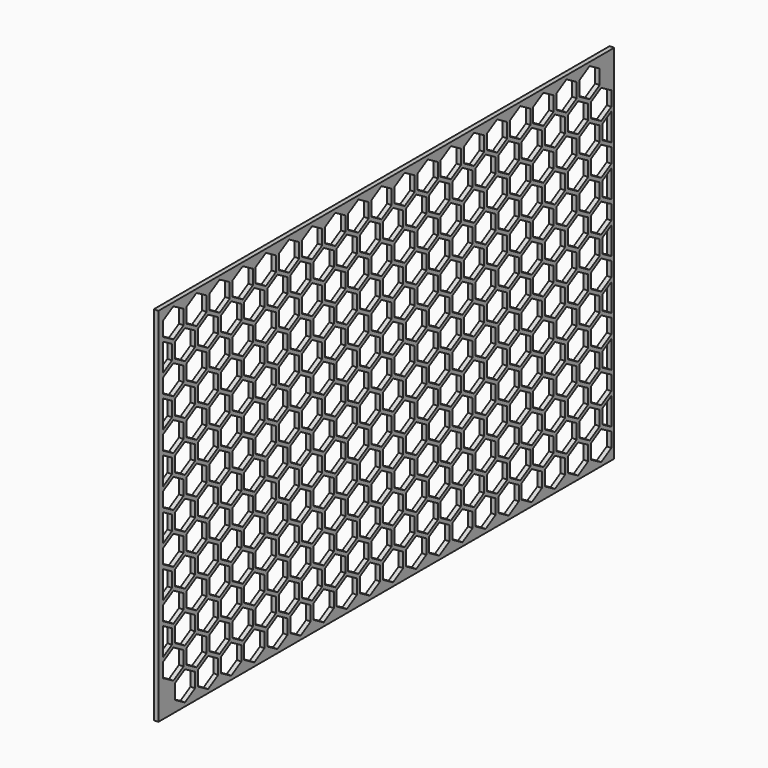
from build123d import *

# Parameters (mm, degrees)
F0_W     = 3154
F0_H     = 2002.990916
F1_DEPTH = 25


with BuildPart() as f1:
    # F0 (on Right) → F1 (new body)
    with BuildSketch(Plane.YZ):
        with Locations((-367, 900.66642)):
            Rectangle(F0_W, F0_H)
        Polygon((-1830, 40.414519), (-1760, 80.829038), (-1690, 40.414519), (-1690, -40.414519), (-1760, -80.829038), (-1830, -40.414519), align=None, mode=Mode.SUBTRACT)
        Polygon((-1600, 80.829038), (-1530, 40.414519), (-1530, -40.414519), (-1600, -80.829038), (-1670, -40.414519), (-1670, 40.414519), align=None, mode=Mode.SUBTRACT)
        Polygon((-1910, 98.149546), (-1910, 178.978583), (-1840, 219.393102), (-1770, 178.978583), (-1770, 98.149546), (-1840, 57.735027), align=None, mode=Mode.SUBTRACT)
        Polygon((-1680, 219.393102), (-1610, 178.978583), (-1610, 98.149546), (-1680, 57.735027), (-1750, 98.149546), (-1750, 178.978583), align=None, mode=Mode.SUBTRACT)
        Polygon((-1370, 40.414519), (-1370, -40.414519), (-1440, -80.829038), (-1510, -40.414519), (-1510, 40.414519), (-1440, 80.829038), align=None, mode=Mode.SUBTRACT)
        Polygon((-1210, -40.414519), (-1280, -80.829038), (-1350, -40.414519), (-1350, 40.414519), (-1280, 80.829038), (-1210, 40.414519), align=None, mode=Mode.SUBTRACT)
        Polygon((-1450, 98.149546), (-1520, 57.735027), (-1590, 98.149546), (-1590, 178.978583), (-1520, 219.393102), (-1450, 178.978583), align=None, mode=Mode.SUBTRACT)
        Polygon((-1430, 178.978583), (-1360, 219.393102), (-1290, 178.978583), (-1290, 98.149546), (-1360, 57.735027), (-1430, 98.149546), align=None, mode=Mode.SUBTRACT)
        Polygon((-1270, 178.978583), (-1200, 219.393102), (-1130, 178.978583), (-1130, 98.149546), (-1200, 57.735027), (-1270, 98.149546), align=None, mode=Mode.SUBTRACT)
        Polygon((-1910, 352.183664), (-1850, 317.542648), (-1850, 236.71361), (-1910, 202.072594), align=None, mode=Mode.SUBTRACT)
        Polygon((-1830, 236.71361), (-1830, 317.542648), (-1760, 357.957167), (-1690, 317.542648), (-1690, 236.71361), (-1760, 196.299092), align=None, mode=Mode.SUBTRACT)
        Polygon((-1600, 357.957167), (-1530, 317.542648), (-1530, 236.71361), (-1600, 196.299092), (-1670, 236.71361), (-1670, 317.542648), align=None, mode=Mode.SUBTRACT)
        Polygon((-1510, 236.71361), (-1510, 317.542648), (-1440, 357.957167), (-1370, 317.542648), (-1370, 236.71361), (-1440, 196.299092), align=None, mode=Mode.SUBTRACT)
        Polygon((-1350, 317.542648), (-1280, 357.957167), (-1210, 317.542648), (-1210, 236.71361), (-1280, 196.299092), (-1350, 236.71361), align=None, mode=Mode.SUBTRACT)
        Polygon((-1050, 40.414519), (-1050, -40.414519), (-1120, -80.829038), (-1190, -40.414519), (-1190, 40.414519), (-1120, 80.829038), align=None, mode=Mode.SUBTRACT)
        Polygon((-1030, -40.414519), (-1030, 40.414519), (-960, 80.829038), (-890, 40.414519), (-890, -40.414519), (-960, -80.829038), align=None, mode=Mode.SUBTRACT)
        Polygon((-730, 40.414519), (-730, -40.414519), (-800, -80.829038), (-870, -40.414519), (-870, 40.414519), (-800, 80.829038), align=None, mode=Mode.SUBTRACT)
        Polygon((-1040, 219.393102), (-970, 178.978583), (-970, 98.149546), (-1040, 57.735027), (-1110, 98.149546), (-1110, 178.978583), align=None, mode=Mode.SUBTRACT)
        Polygon((-810, 178.978583), (-810, 98.149546), (-880, 57.735027), (-950, 98.149546), (-950, 178.978583), (-880, 219.393102), align=None, mode=Mode.SUBTRACT)
        Polygon((-570, -40.414519), (-640, -80.829038), (-710, -40.414519), (-710, 40.414519), (-640, 80.829038), (-570, 40.414519), align=None, mode=Mode.SUBTRACT)
        Polygon((-550, 40.414519), (-480, 80.829038), (-410, 40.414519), (-410, -40.414519), (-480, -80.829038), (-550, -40.414519), align=None, mode=Mode.SUBTRACT)
        Polygon((-790, 98.149546), (-790, 178.978583), (-720, 219.393102), (-650, 178.978583), (-650, 98.149546), (-720, 57.735027), align=None, mode=Mode.SUBTRACT)
        Polygon((-560, 219.393102), (-490, 178.978583), (-490, 98.149546), (-560, 57.735027), (-630, 98.149546), (-630, 178.978583), align=None, mode=Mode.SUBTRACT)
        Polygon((-330, 98.149546), (-400, 57.735027), (-470, 98.149546), (-470, 178.978583), (-400, 219.393102), (-330, 178.978583), align=None, mode=Mode.SUBTRACT)
        Polygon((-1190, 236.71361), (-1190, 317.542648), (-1120, 357.957167), (-1050, 317.542648), (-1050, 236.71361), (-1120, 196.299092), align=None, mode=Mode.SUBTRACT)
        Polygon((-1030, 236.71361), (-1030, 317.542648), (-960, 357.957167), (-890, 317.542648), (-890, 236.71361), (-960, 196.299092), align=None, mode=Mode.SUBTRACT)
        Polygon((-800, 357.957167), (-730, 317.542648), (-730, 236.71361), (-800, 196.299092), (-870, 236.71361), (-870, 317.542648), align=None, mode=Mode.SUBTRACT)
        Polygon((-570, 236.71361), (-640, 196.299092), (-710, 236.71361), (-710, 317.542648), (-640, 357.957167), (-570, 317.542648), align=None, mode=Mode.SUBTRACT)
        Polygon((-410, 236.71361), (-480, 196.299092), (-550, 236.71361), (-550, 317.542648), (-480, 357.957167), (-410, 317.542648), align=None, mode=Mode.SUBTRACT)
        Polygon((-1770, 375.277675), (-1840, 334.863156), (-1910, 375.277675), (-1910, 456.106713), (-1840, 496.521232), (-1770, 456.106713), align=None, mode=Mode.SUBTRACT)
        Polygon((-1680, 334.863156), (-1750, 375.277675), (-1750, 456.106713), (-1680, 496.521232), (-1610, 456.106713), (-1610, 375.277675), align=None, mode=Mode.SUBTRACT)
        Polygon((-1850, 594.670777), (-1850, 513.84174), (-1910, 479.200723), (-1910, 629.311793), align=None, mode=Mode.SUBTRACT)
        Polygon((-1760, 635.085296), (-1690, 594.670777), (-1690, 513.84174), (-1760, 473.427221), (-1830, 513.84174), (-1830, 594.670777), align=None, mode=Mode.SUBTRACT)
        Polygon((-1600, 635.085296), (-1530, 594.670777), (-1530, 513.84174), (-1600, 473.427221), (-1670, 513.84174), (-1670, 594.670777), align=None, mode=Mode.SUBTRACT)
        Polygon((-1450, 456.106713), (-1450, 375.277675), (-1520, 334.863156), (-1590, 375.277675), (-1590, 456.106713), (-1520, 496.521232), align=None, mode=Mode.SUBTRACT)
        Polygon((-1290, 375.277675), (-1360, 334.863156), (-1430, 375.277675), (-1430, 456.106713), (-1360, 496.521232), (-1290, 456.106713), align=None, mode=Mode.SUBTRACT)
        Polygon((-1130, 375.277675), (-1200, 334.863156), (-1270, 375.277675), (-1270, 456.106713), (-1200, 496.521232), (-1130, 456.106713), align=None, mode=Mode.SUBTRACT)
        Polygon((-1510, 513.84174), (-1510, 594.670777), (-1440, 635.085296), (-1370, 594.670777), (-1370, 513.84174), (-1440, 473.427221), align=None, mode=Mode.SUBTRACT)
        Polygon((-1280, 635.085296), (-1210, 594.670777), (-1210, 513.84174), (-1280, 473.427221), (-1350, 513.84174), (-1350, 594.670777), align=None, mode=Mode.SUBTRACT)
        Polygon((-1910, 652.405804), (-1910, 733.234842), (-1840, 773.649361), (-1770, 733.234842), (-1770, 652.405804), (-1840, 611.991285), align=None, mode=Mode.SUBTRACT)
        Polygon((-1750, 652.405804), (-1750, 733.234842), (-1680, 773.649361), (-1610, 733.234842), (-1610, 652.405804), (-1680, 611.991285), align=None, mode=Mode.SUBTRACT)
        Polygon((-1850, 871.798906), (-1850, 790.969869), (-1910, 756.328853), (-1910, 906.439923), align=None, mode=Mode.SUBTRACT)
        Polygon((-1690, 790.969869), (-1760, 750.55535), (-1830, 790.969869), (-1830, 871.798906), (-1760, 912.213425), (-1690, 871.798906), align=None, mode=Mode.SUBTRACT)
        Polygon((-1530, 790.969869), (-1600, 750.55535), (-1670, 790.969869), (-1670, 871.798906), (-1600, 912.213425), (-1530, 871.798906), align=None, mode=Mode.SUBTRACT)
        Polygon((-1590, 733.234842), (-1520, 773.649361), (-1450, 733.234842), (-1450, 652.405804), (-1520, 611.991285), (-1590, 652.405804), align=None, mode=Mode.SUBTRACT)
        Polygon((-1430, 652.405804), (-1430, 733.234842), (-1360, 773.649361), (-1290, 733.234842), (-1290, 652.405804), (-1360, 611.991285), align=None, mode=Mode.SUBTRACT)
        Polygon((-1200, 773.649361), (-1130, 733.234842), (-1130, 652.405804), (-1200, 611.991285), (-1270, 652.405804), (-1270, 733.234842), align=None, mode=Mode.SUBTRACT)
        Polygon((-1440, 750.55535), (-1510, 790.969869), (-1510, 871.798906), (-1440, 912.213425), (-1370, 871.798906), (-1370, 790.969869), align=None, mode=Mode.SUBTRACT)
        Polygon((-1210, 790.969869), (-1280, 750.55535), (-1350, 790.969869), (-1350, 871.798906), (-1280, 912.213425), (-1210, 871.798906), align=None, mode=Mode.SUBTRACT)
        Polygon((-970, 375.277675), (-1040, 334.863156), (-1110, 375.277675), (-1110, 456.106713), (-1040, 496.521232), (-970, 456.106713), align=None, mode=Mode.SUBTRACT)
        Polygon((-810, 375.277675), (-880, 334.863156), (-950, 375.277675), (-950, 456.106713), (-880, 496.521232), (-810, 456.106713), align=None, mode=Mode.SUBTRACT)
        Polygon((-1190, 594.670777), (-1120, 635.085296), (-1050, 594.670777), (-1050, 513.84174), (-1120, 473.427221), (-1190, 513.84174), align=None, mode=Mode.SUBTRACT)
        Polygon((-1030, 594.670777), (-960, 635.085296), (-890, 594.670777), (-890, 513.84174), (-960, 473.427221), (-1030, 513.84174), align=None, mode=Mode.SUBTRACT)
        Polygon((-730, 594.670777), (-730, 513.84174), (-800, 473.427221), (-870, 513.84174), (-870, 594.670777), (-800, 635.085296), align=None, mode=Mode.SUBTRACT)
        Polygon((-650, 375.277675), (-720, 334.863156), (-790, 375.277675), (-790, 456.106713), (-720, 496.521232), (-650, 456.106713), align=None, mode=Mode.SUBTRACT)
        Polygon((-560, 334.863156), (-630, 375.277675), (-630, 456.106713), (-560, 496.521232), (-490, 456.106713), (-490, 375.277675), align=None, mode=Mode.SUBTRACT)
        Polygon((-400, 334.863156), (-470, 375.277675), (-470, 456.106713), (-400, 496.521232), (-330, 456.106713), (-330, 375.277675), align=None, mode=Mode.SUBTRACT)
        Polygon((-710, 513.84174), (-710, 594.670777), (-640, 635.085296), (-570, 594.670777), (-570, 513.84174), (-640, 473.427221), align=None, mode=Mode.SUBTRACT)
        Polygon((-410, 513.84174), (-480, 473.427221), (-550, 513.84174), (-550, 594.670777), (-480, 635.085296), (-410, 594.670777), align=None, mode=Mode.SUBTRACT)
        Polygon((-1110, 733.234842), (-1040, 773.649361), (-970, 733.234842), (-970, 652.405804), (-1040, 611.991285), (-1110, 652.405804), align=None, mode=Mode.SUBTRACT)
        Polygon((-950, 733.234842), (-880, 773.649361), (-810, 733.234842), (-810, 652.405804), (-880, 611.991285), (-950, 652.405804), align=None, mode=Mode.SUBTRACT)
        Polygon((-1050, 790.969869), (-1120, 750.55535), (-1190, 790.969869), (-1190, 871.798906), (-1120, 912.213425), (-1050, 871.798906), align=None, mode=Mode.SUBTRACT)
        Polygon((-890, 871.798906), (-890, 790.969869), (-960, 750.55535), (-1030, 790.969869), (-1030, 871.798906), (-960, 912.213425), align=None, mode=Mode.SUBTRACT)
        Polygon((-730, 871.798906), (-730, 790.969869), (-800, 750.55535), (-870, 790.969869), (-870, 871.798906), (-800, 912.213425), align=None, mode=Mode.SUBTRACT)
        Polygon((-720, 773.649361), (-650, 733.234842), (-650, 652.405804), (-720, 611.991285), (-790, 652.405804), (-790, 733.234842), align=None, mode=Mode.SUBTRACT)
        Polygon((-630, 733.234842), (-560, 773.649361), (-490, 733.234842), (-490, 652.405804), (-560, 611.991285), (-630, 652.405804), align=None, mode=Mode.SUBTRACT)
        Polygon((-470, 733.234842), (-400, 773.649361), (-330, 733.234842), (-330, 652.405804), (-400, 611.991285), (-470, 652.405804), align=None, mode=Mode.SUBTRACT)
        Polygon((-570, 790.969869), (-640, 750.55535), (-710, 790.969869), (-710, 871.798906), (-640, 912.213425), (-570, 871.798906), align=None, mode=Mode.SUBTRACT)
        Polygon((-410, 871.798906), (-410, 790.969869), (-480, 750.55535), (-550, 790.969869), (-550, 871.798906), (-480, 912.213425), align=None, mode=Mode.SUBTRACT)
        Polygon((-250, 40.414519), (-250, -40.414519), (-320, -80.829038), (-390, -40.414519), (-390, 40.414519), (-320, 80.829038), align=None, mode=Mode.SUBTRACT)
        Polygon((-230, 40.414519), (-160, 80.829038), (-90, 40.414519), (-90, -40.414519), (-160, -80.829038), (-230, -40.414519), align=None, mode=Mode.SUBTRACT)
        Polygon((70, -40.414519), (0, -80.829038), (-70, -40.414519), (-70, 40.414519), (0, 80.829038), (70, 40.414519), align=None, mode=Mode.SUBTRACT)
        Polygon((-240, 219.393102), (-170, 178.978583), (-170, 98.149546), (-240, 57.735027), (-310, 98.149546), (-310, 178.978583), align=None, mode=Mode.SUBTRACT)
        Polygon((-10, 178.978583), (-10, 98.149546), (-80, 57.735027), (-150, 98.149546), (-150, 178.978583), (-80, 219.393102), align=None, mode=Mode.SUBTRACT)
        Polygon((230, -40.414519), (160, -80.829038), (90, -40.414519), (90, 40.414519), (160, 80.829038), (230, 40.414519), align=None, mode=Mode.SUBTRACT)
        Polygon((250, 40.414519), (320, 80.829038), (390, 40.414519), (390, -40.414519), (320, -80.829038), (250, -40.414519), align=None, mode=Mode.SUBTRACT)
        Polygon((80, 57.735027), (10, 98.149546), (10, 178.978583), (80, 219.393102), (150, 178.978583), (150, 98.149546), align=None, mode=Mode.SUBTRACT)
        Polygon((240, 219.393102), (310, 178.978583), (310, 98.149546), (240, 57.735027), (170, 98.149546), (170, 178.978583), align=None, mode=Mode.SUBTRACT)
        Polygon((470, 98.149546), (400, 57.735027), (330, 98.149546), (330, 178.978583), (400, 219.393102), (470, 178.978583), align=None, mode=Mode.SUBTRACT)
        Polygon((-250, 317.542648), (-250, 236.71361), (-320, 196.299092), (-390, 236.71361), (-390, 317.542648), (-320, 357.957167), align=None, mode=Mode.SUBTRACT)
        Polygon((-230, 236.71361), (-230, 317.542648), (-160, 357.957167), (-90, 317.542648), (-90, 236.71361), (-160, 196.299092), align=None, mode=Mode.SUBTRACT)
        Polygon((-70, 317.542648), (0, 357.957167), (70, 317.542648), (70, 236.71361), (0, 196.299092), (-70, 236.71361), align=None, mode=Mode.SUBTRACT)
        Polygon((160, 196.299092), (90, 236.71361), (90, 317.542648), (160, 357.957167), (230, 317.542648), (230, 236.71361), align=None, mode=Mode.SUBTRACT)
        Polygon((390, 317.542648), (390, 236.71361), (320, 196.299092), (250, 236.71361), (250, 317.542648), (320, 357.957167), align=None, mode=Mode.SUBTRACT)
        Polygon((410, -40.414519), (410, 40.414519), (480, 80.829038), (550, 40.414519), (550, -40.414519), (480, -80.829038), align=None, mode=Mode.SUBTRACT)
        Polygon((570, 40.414519), (640, 80.829038), (710, 40.414519), (710, -40.414519), (640, -80.829038), (570, -40.414519), align=None, mode=Mode.SUBTRACT)
        Polygon((800, 80.829038), (870, 40.414519), (870, -40.414519), (800, -80.829038), (730, -40.414519), (730, 40.414519), align=None, mode=Mode.SUBTRACT)
        Polygon((560, 57.735027), (490, 98.149546), (490, 178.978583), (560, 219.393102), (630, 178.978583), (630, 98.149546), align=None, mode=Mode.SUBTRACT)
        Polygon((720, 219.393102), (790, 178.978583), (790, 98.149546), (720, 57.735027), (650, 98.149546), (650, 178.978583), align=None, mode=Mode.SUBTRACT)
        Polygon((1030, -40.414519), (960, -80.829038), (890, -40.414519), (890, 40.414519), (960, 80.829038), (1030, 40.414519), align=None, mode=Mode.SUBTRACT)
        Polygon((1190, -40.414519), (1120, -80.829038), (1050, -40.414519), (1050, 40.414519), (1120, 80.829038), (1190, 40.414519), align=None, mode=Mode.SUBTRACT)
        Polygon((880, 219.393102), (950, 178.978583), (950, 98.149546), (880, 57.735027), (810, 98.149546), (810, 178.978583), align=None, mode=Mode.SUBTRACT)
        Polygon((970, 98.149546), (970, 178.978583), (1040, 219.393102), (1110, 178.978583), (1110, 98.149546), (1040, 57.735027), align=None, mode=Mode.SUBTRACT)
        Polygon((1190, 63.50853), (1130, 98.149546), (1130, 178.978583), (1190, 213.6196), align=None, mode=Mode.SUBTRACT)
        Polygon((480, 196.299092), (410, 236.71361), (410, 317.542648), (480, 357.957167), (550, 317.542648), (550, 236.71361), align=None, mode=Mode.SUBTRACT)
        Polygon((570, 317.542648), (640, 357.957167), (710, 317.542648), (710, 236.71361), (640, 196.299092), (570, 236.71361), align=None, mode=Mode.SUBTRACT)
        Polygon((870, 317.542648), (870, 236.71361), (800, 196.299092), (730, 236.71361), (730, 317.542648), (800, 357.957167), align=None, mode=Mode.SUBTRACT)
        Polygon((1030, 236.71361), (960, 196.299092), (890, 236.71361), (890, 317.542648), (960, 357.957167), (1030, 317.542648), align=None, mode=Mode.SUBTRACT)
        Polygon((1190, 236.71361), (1120, 196.299092), (1050, 236.71361), (1050, 317.542648), (1120, 357.957167), (1190, 317.542648), align=None, mode=Mode.SUBTRACT)
        Polygon((-170, 375.277675), (-240, 334.863156), (-310, 375.277675), (-310, 456.106713), (-240, 496.521232), (-170, 456.106713), align=None, mode=Mode.SUBTRACT)
        Polygon((-80, 334.863156), (-150, 375.277675), (-150, 456.106713), (-80, 496.521232), (-10, 456.106713), (-10, 375.277675), align=None, mode=Mode.SUBTRACT)
        Polygon((-390, 594.670777), (-320, 635.085296), (-250, 594.670777), (-250, 513.84174), (-320, 473.427221), (-390, 513.84174), align=None, mode=Mode.SUBTRACT)
        Polygon((-230, 594.670777), (-160, 635.085296), (-90, 594.670777), (-90, 513.84174), (-160, 473.427221), (-230, 513.84174), align=None, mode=Mode.SUBTRACT)
        Polygon((-70, 594.670777), (0, 635.085296), (70, 594.670777), (70, 513.84174), (0, 473.427221), (-70, 513.84174), align=None, mode=Mode.SUBTRACT)
        Polygon((150, 375.277675), (80, 334.863156), (10, 375.277675), (10, 456.106713), (80, 496.521232), (150, 456.106713), align=None, mode=Mode.SUBTRACT)
        Polygon((310, 456.106713), (310, 375.277675), (240, 334.863156), (170, 375.277675), (170, 456.106713), (240, 496.521232), align=None, mode=Mode.SUBTRACT)
        Polygon((470, 456.106713), (470, 375.277675), (400, 334.863156), (330, 375.277675), (330, 456.106713), (400, 496.521232), align=None, mode=Mode.SUBTRACT)
        Polygon((230, 513.84174), (160, 473.427221), (90, 513.84174), (90, 594.670777), (160, 635.085296), (230, 594.670777), align=None, mode=Mode.SUBTRACT)
        Polygon((390, 594.670777), (390, 513.84174), (320, 473.427221), (250, 513.84174), (250, 594.670777), (320, 635.085296), align=None, mode=Mode.SUBTRACT)
        Polygon((-310, 733.234842), (-240, 773.649361), (-170, 733.234842), (-170, 652.405804), (-240, 611.991285), (-310, 652.405804), align=None, mode=Mode.SUBTRACT)
        Polygon((-150, 733.234842), (-80, 773.649361), (-10, 733.234842), (-10, 652.405804), (-80, 611.991285), (-150, 652.405804), align=None, mode=Mode.SUBTRACT)
        Polygon((-250, 790.969869), (-320, 750.55535), (-390, 790.969869), (-390, 871.798906), (-320, 912.213425), (-250, 871.798906), align=None, mode=Mode.SUBTRACT)
        Polygon((-90, 790.969869), (-160, 750.55535), (-230, 790.969869), (-230, 871.798906), (-160, 912.213425), (-90, 871.798906), align=None, mode=Mode.SUBTRACT)
        Polygon((70, 790.969869), (0, 750.55535), (-70, 790.969869), (-70, 871.798906), (0, 912.213425), (70, 871.798906), align=None, mode=Mode.SUBTRACT)
        Polygon((10, 652.405804), (10, 733.234842), (80, 773.649361), (150, 733.234842), (150, 652.405804), (80, 611.991285), align=None, mode=Mode.SUBTRACT)
        Polygon((170, 733.234842), (240, 773.649361), (310, 733.234842), (310, 652.405804), (240, 611.991285), (170, 652.405804), align=None, mode=Mode.SUBTRACT)
        Polygon((330, 733.234842), (400, 773.649361), (470, 733.234842), (470, 652.405804), (400, 611.991285), (330, 652.405804), align=None, mode=Mode.SUBTRACT)
        Polygon((160, 750.55535), (90, 790.969869), (90, 871.798906), (160, 912.213425), (230, 871.798906), (230, 790.969869), align=None, mode=Mode.SUBTRACT)
        Polygon((390, 790.969869), (320, 750.55535), (250, 790.969869), (250, 871.798906), (320, 912.213425), (390, 871.798906), align=None, mode=Mode.SUBTRACT)
        Polygon((630, 375.277675), (560, 334.863156), (490, 375.277675), (490, 456.106713), (560, 496.521232), (630, 456.106713), align=None, mode=Mode.SUBTRACT)
        Polygon((790, 375.277675), (720, 334.863156), (650, 375.277675), (650, 456.106713), (720, 496.521232), (790, 456.106713), align=None, mode=Mode.SUBTRACT)
        Polygon((410, 513.84174), (410, 594.670777), (480, 635.085296), (550, 594.670777), (550, 513.84174), (480, 473.427221), align=None, mode=Mode.SUBTRACT)
        Polygon((640, 635.085296), (710, 594.670777), (710, 513.84174), (640, 473.427221), (570, 513.84174), (570, 594.670777), align=None, mode=Mode.SUBTRACT)
        Polygon((870, 513.84174), (800, 473.427221), (730, 513.84174), (730, 594.670777), (800, 635.085296), (870, 594.670777), align=None, mode=Mode.SUBTRACT)
        Polygon((950, 456.106713), (950, 375.277675), (880, 334.863156), (810, 375.277675), (810, 456.106713), (880, 496.521232), align=None, mode=Mode.SUBTRACT)
        Polygon((1110, 375.277675), (1040, 334.863156), (970, 375.277675), (970, 456.106713), (1040, 496.521232), (1110, 456.106713), align=None, mode=Mode.SUBTRACT)
        Polygon((1190, 340.636659), (1130, 375.277675), (1130, 456.106713), (1190, 490.747729), align=None, mode=Mode.SUBTRACT)
        Polygon((1030, 513.84174), (960, 473.427221), (890, 513.84174), (890, 594.670777), (960, 635.085296), (1030, 594.670777), align=None, mode=Mode.SUBTRACT)
        Polygon((1120, 635.085296), (1190, 594.670777), (1190, 513.84174), (1120, 473.427221), (1050, 513.84174), (1050, 594.670777), align=None, mode=Mode.SUBTRACT)
        Polygon((490, 733.234842), (560, 773.649361), (630, 733.234842), (630, 652.405804), (560, 611.991285), (490, 652.405804), align=None, mode=Mode.SUBTRACT)
        Polygon((720, 773.649361), (790, 733.234842), (790, 652.405804), (720, 611.991285), (650, 652.405804), (650, 733.234842), align=None, mode=Mode.SUBTRACT)
        Polygon((550, 871.798906), (550, 790.969869), (480, 750.55535), (410, 790.969869), (410, 871.798906), (480, 912.213425), align=None, mode=Mode.SUBTRACT)
        Polygon((710, 790.969869), (640, 750.55535), (570, 790.969869), (570, 871.798906), (640, 912.213425), (710, 871.798906), align=None, mode=Mode.SUBTRACT)
        Polygon((870, 871.798906), (870, 790.969869), (800, 750.55535), (730, 790.969869), (730, 871.798906), (800, 912.213425), align=None, mode=Mode.SUBTRACT)
        Polygon((880, 773.649361), (950, 733.234842), (950, 652.405804), (880, 611.991285), (810, 652.405804), (810, 733.234842), align=None, mode=Mode.SUBTRACT)
        Polygon((1040, 773.649361), (1110, 733.234842), (1110, 652.405804), (1040, 611.991285), (970, 652.405804), (970, 733.234842), align=None, mode=Mode.SUBTRACT)
        Polygon((1130, 652.405804), (1130, 733.234842), (1190, 767.875858), (1190, 617.764788), align=None, mode=Mode.SUBTRACT)
        Polygon((1030, 790.969869), (960, 750.55535), (890, 790.969869), (890, 871.798906), (960, 912.213425), (1030, 871.798906), align=None, mode=Mode.SUBTRACT)
        Polygon((1190, 871.798906), (1190, 790.969869), (1120, 750.55535), (1050, 790.969869), (1050, 871.798906), (1120, 912.213425), align=None, mode=Mode.SUBTRACT)
        Polygon((-1770, 929.533933), (-1840, 889.119415), (-1910, 929.533933), (-1910, 1010.362971), (-1840, 1050.77749), (-1770, 1010.362971), align=None, mode=Mode.SUBTRACT)
        Polygon((-1610, 1010.362971), (-1610, 929.533933), (-1680, 889.119415), (-1750, 929.533933), (-1750, 1010.362971), (-1680, 1050.77749), align=None, mode=Mode.SUBTRACT)
        Polygon((-1850, 1148.927036), (-1850, 1068.097998), (-1910, 1033.456982), (-1910, 1183.568052), align=None, mode=Mode.SUBTRACT)
        Polygon((-1830, 1148.927036), (-1760, 1189.341555), (-1690, 1148.927036), (-1690, 1068.097998), (-1760, 1027.683479), (-1830, 1068.097998), align=None, mode=Mode.SUBTRACT)
        Polygon((-1600, 1189.341555), (-1530, 1148.927036), (-1530, 1068.097998), (-1600, 1027.683479), (-1670, 1068.097998), (-1670, 1148.927036), align=None, mode=Mode.SUBTRACT)
        Polygon((-1450, 929.533933), (-1520, 889.119415), (-1590, 929.533933), (-1590, 1010.362971), (-1520, 1050.77749), (-1450, 1010.362971), align=None, mode=Mode.SUBTRACT)
        Polygon((-1290, 1010.362971), (-1290, 929.533933), (-1360, 889.119415), (-1430, 929.533933), (-1430, 1010.362971), (-1360, 1050.77749), align=None, mode=Mode.SUBTRACT)
        Polygon((-1200, 889.119415), (-1270, 929.533933), (-1270, 1010.362971), (-1200, 1050.77749), (-1130, 1010.362971), (-1130, 929.533933), align=None, mode=Mode.SUBTRACT)
        Polygon((-1510, 1148.927036), (-1440, 1189.341555), (-1370, 1148.927036), (-1370, 1068.097998), (-1440, 1027.683479), (-1510, 1068.097998), align=None, mode=Mode.SUBTRACT)
        Polygon((-1280, 1189.341555), (-1210, 1148.927036), (-1210, 1068.097998), (-1280, 1027.683479), (-1350, 1068.097998), (-1350, 1148.927036), align=None, mode=Mode.SUBTRACT)
        Polygon((-1910, 1287.4911), (-1840, 1327.905619), (-1770, 1287.4911), (-1770, 1206.662063), (-1840, 1166.247544), (-1910, 1206.662063), align=None, mode=Mode.SUBTRACT)
        Polygon((-1750, 1287.4911), (-1680, 1327.905619), (-1610, 1287.4911), (-1610, 1206.662063), (-1680, 1166.247544), (-1750, 1206.662063), align=None, mode=Mode.SUBTRACT)
        Polygon((-1850, 1426.055165), (-1850, 1345.226127), (-1910, 1310.585111), (-1910, 1460.696181), align=None, mode=Mode.SUBTRACT)
        Polygon((-1830, 1426.055165), (-1760, 1466.469684), (-1690, 1426.055165), (-1690, 1345.226127), (-1760, 1304.811608), (-1830, 1345.226127), align=None, mode=Mode.SUBTRACT)
        Polygon((-1670, 1426.055165), (-1600, 1466.469684), (-1530, 1426.055165), (-1530, 1345.226127), (-1600, 1304.811608), (-1670, 1345.226127), align=None, mode=Mode.SUBTRACT)
        Polygon((-1590, 1287.4911), (-1520, 1327.905619), (-1450, 1287.4911), (-1450, 1206.662063), (-1520, 1166.247544), (-1590, 1206.662063), align=None, mode=Mode.SUBTRACT)
        Polygon((-1360, 1327.905619), (-1290, 1287.4911), (-1290, 1206.662063), (-1360, 1166.247544), (-1430, 1206.662063), (-1430, 1287.4911), align=None, mode=Mode.SUBTRACT)
        Polygon((-1270, 1206.662063), (-1270, 1287.4911), (-1200, 1327.905619), (-1130, 1287.4911), (-1130, 1206.662063), (-1200, 1166.247544), align=None, mode=Mode.SUBTRACT)
        Polygon((-1440, 1466.469684), (-1370, 1426.055165), (-1370, 1345.226127), (-1440, 1304.811608), (-1510, 1345.226127), (-1510, 1426.055165), align=None, mode=Mode.SUBTRACT)
        Polygon((-1350, 1426.055165), (-1280, 1466.469684), (-1210, 1426.055165), (-1210, 1345.226127), (-1280, 1304.811608), (-1350, 1345.226127), align=None, mode=Mode.SUBTRACT)
        Polygon((-970, 929.533933), (-1040, 889.119415), (-1110, 929.533933), (-1110, 1010.362971), (-1040, 1050.77749), (-970, 1010.362971), align=None, mode=Mode.SUBTRACT)
        Polygon((-810, 1010.362971), (-810, 929.533933), (-880, 889.119415), (-950, 929.533933), (-950, 1010.362971), (-880, 1050.77749), align=None, mode=Mode.SUBTRACT)
        Polygon((-1190, 1068.097998), (-1190, 1148.927036), (-1120, 1189.341555), (-1050, 1148.927036), (-1050, 1068.097998), (-1120, 1027.683479), align=None, mode=Mode.SUBTRACT)
        Polygon((-960, 1189.341555), (-890, 1148.927036), (-890, 1068.097998), (-960, 1027.683479), (-1030, 1068.097998), (-1030, 1148.927036), align=None, mode=Mode.SUBTRACT)
        Polygon((-800, 1189.341555), (-730, 1148.927036), (-730, 1068.097998), (-800, 1027.683479), (-870, 1068.097998), (-870, 1148.927036), align=None, mode=Mode.SUBTRACT)
        Polygon((-650, 929.533933), (-720, 889.119415), (-790, 929.533933), (-790, 1010.362971), (-720, 1050.77749), (-650, 1010.362971), align=None, mode=Mode.SUBTRACT)
        Polygon((-560, 889.119415), (-630, 929.533933), (-630, 1010.362971), (-560, 1050.77749), (-490, 1010.362971), (-490, 929.533933), align=None, mode=Mode.SUBTRACT)
        Polygon((-400, 889.119415), (-470, 929.533933), (-470, 1010.362971), (-400, 1050.77749), (-330, 1010.362971), (-330, 929.533933), align=None, mode=Mode.SUBTRACT)
        Polygon((-710, 1148.927036), (-640, 1189.341555), (-570, 1148.927036), (-570, 1068.097998), (-640, 1027.683479), (-710, 1068.097998), align=None, mode=Mode.SUBTRACT)
        Polygon((-410, 1068.097998), (-480, 1027.683479), (-550, 1068.097998), (-550, 1148.927036), (-480, 1189.341555), (-410, 1148.927036), align=None, mode=Mode.SUBTRACT)
        Polygon((-1110, 1287.4911), (-1040, 1327.905619), (-970, 1287.4911), (-970, 1206.662063), (-1040, 1166.247544), (-1110, 1206.662063), align=None, mode=Mode.SUBTRACT)
        Polygon((-950, 1287.4911), (-880, 1327.905619), (-810, 1287.4911), (-810, 1206.662063), (-880, 1166.247544), (-950, 1206.662063), align=None, mode=Mode.SUBTRACT)
        Polygon((-1190, 1426.055165), (-1120, 1466.469684), (-1050, 1426.055165), (-1050, 1345.226127), (-1120, 1304.811608), (-1190, 1345.226127), align=None, mode=Mode.SUBTRACT)
        Polygon((-1030, 1426.055165), (-960, 1466.469684), (-890, 1426.055165), (-890, 1345.226127), (-960, 1304.811608), (-1030, 1345.226127), align=None, mode=Mode.SUBTRACT)
        Polygon((-800, 1466.469684), (-730, 1426.055165), (-730, 1345.226127), (-800, 1304.811608), (-870, 1345.226127), (-870, 1426.055165), align=None, mode=Mode.SUBTRACT)
        Polygon((-790, 1287.4911), (-720, 1327.905619), (-650, 1287.4911), (-650, 1206.662063), (-720, 1166.247544), (-790, 1206.662063), align=None, mode=Mode.SUBTRACT)
        Polygon((-630, 1206.662063), (-630, 1287.4911), (-560, 1327.905619), (-490, 1287.4911), (-490, 1206.662063), (-560, 1166.247544), align=None, mode=Mode.SUBTRACT)
        Polygon((-470, 1287.4911), (-400, 1327.905619), (-330, 1287.4911), (-330, 1206.662063), (-400, 1166.247544), (-470, 1206.662063), align=None, mode=Mode.SUBTRACT)
        Polygon((-710, 1426.055165), (-640, 1466.469684), (-570, 1426.055165), (-570, 1345.226127), (-640, 1304.811608), (-710, 1345.226127), align=None, mode=Mode.SUBTRACT)
        Polygon((-480, 1466.469684), (-410, 1426.055165), (-410, 1345.226127), (-480, 1304.811608), (-550, 1345.226127), (-550, 1426.055165), align=None, mode=Mode.SUBTRACT)
        Polygon((-1770, 1483.790192), (-1840, 1443.375673), (-1910, 1483.790192), (-1910, 1564.61923), (-1840, 1605.033748), (-1770, 1564.61923), align=None, mode=Mode.SUBTRACT)
        Polygon((-1610, 1483.790192), (-1680, 1443.375673), (-1750, 1483.790192), (-1750, 1564.61923), (-1680, 1605.033748), (-1610, 1564.61923), align=None, mode=Mode.SUBTRACT)
        Polygon((-1450, 1483.790192), (-1520, 1443.375673), (-1590, 1483.790192), (-1590, 1564.61923), (-1520, 1605.033748), (-1450, 1564.61923), align=None, mode=Mode.SUBTRACT)
        Polygon((-1360, 1443.375673), (-1430, 1483.790192), (-1430, 1564.61923), (-1360, 1605.033748), (-1290, 1564.61923), (-1290, 1483.790192), align=None, mode=Mode.SUBTRACT)
        Polygon((-1130, 1483.790192), (-1200, 1443.375673), (-1270, 1483.790192), (-1270, 1564.61923), (-1200, 1605.033748), (-1130, 1564.61923), align=None, mode=Mode.SUBTRACT)
        Polygon((-1850, 1703.183294), (-1850, 1622.354256), (-1910, 1587.71324), (-1910, 1737.82431), align=None, mode=Mode.SUBTRACT)
        Polygon((-1690, 1703.183294), (-1690, 1622.354256), (-1760, 1581.939738), (-1830, 1622.354256), (-1830, 1703.183294), (-1760, 1743.597813), align=None, mode=Mode.SUBTRACT)
        Polygon((-1530, 1622.354256), (-1600, 1581.939738), (-1670, 1622.354256), (-1670, 1703.183294), (-1600, 1743.597813), (-1530, 1703.183294), align=None, mode=Mode.SUBTRACT)
        Polygon((-1910, 1841.747359), (-1840, 1882.161878), (-1770, 1841.747359), (-1770, 1760.918321), (-1840, 1720.503802), (-1910, 1760.918321), align=None, mode=Mode.SUBTRACT)
        Polygon((-1750, 1841.747359), (-1680, 1882.161878), (-1610, 1841.747359), (-1610, 1760.918321), (-1680, 1720.503802), (-1750, 1760.918321), align=None, mode=Mode.SUBTRACT)
        Polygon((-1370, 1703.183294), (-1370, 1622.354256), (-1440, 1581.939738), (-1510, 1622.354256), (-1510, 1703.183294), (-1440, 1743.597813), align=None, mode=Mode.SUBTRACT)
        Polygon((-1210, 1703.183294), (-1210, 1622.354256), (-1280, 1581.939738), (-1350, 1622.354256), (-1350, 1703.183294), (-1280, 1743.597813), align=None, mode=Mode.SUBTRACT)
        Polygon((-1590, 1760.918321), (-1590, 1841.747359), (-1520, 1882.161878), (-1450, 1841.747359), (-1450, 1760.918321), (-1520, 1720.503802), align=None, mode=Mode.SUBTRACT)
        Polygon((-1430, 1760.918321), (-1430, 1841.747359), (-1360, 1882.161878), (-1290, 1841.747359), (-1290, 1760.918321), (-1360, 1720.503802), align=None, mode=Mode.SUBTRACT)
        Polygon((-1200, 1882.161878), (-1130, 1841.747359), (-1130, 1760.918321), (-1200, 1720.503802), (-1270, 1760.918321), (-1270, 1841.747359), align=None, mode=Mode.SUBTRACT)
        Polygon((-1040, 1443.375673), (-1110, 1483.790192), (-1110, 1564.61923), (-1040, 1605.033748), (-970, 1564.61923), (-970, 1483.790192), align=None, mode=Mode.SUBTRACT)
        Polygon((-810, 1564.61923), (-810, 1483.790192), (-880, 1443.375673), (-950, 1483.790192), (-950, 1564.61923), (-880, 1605.033748), align=None, mode=Mode.SUBTRACT)
        Polygon((-650, 1483.790192), (-720, 1443.375673), (-790, 1483.790192), (-790, 1564.61923), (-720, 1605.033748), (-650, 1564.61923), align=None, mode=Mode.SUBTRACT)
        Polygon((-490, 1483.790192), (-560, 1443.375673), (-630, 1483.790192), (-630, 1564.61923), (-560, 1605.033748), (-490, 1564.61923), align=None, mode=Mode.SUBTRACT)
        Polygon((-330, 1483.790192), (-400, 1443.375673), (-470, 1483.790192), (-470, 1564.61923), (-400, 1605.033748), (-330, 1564.61923), align=None, mode=Mode.SUBTRACT)
        Polygon((-1050, 1703.183294), (-1050, 1622.354256), (-1120, 1581.939738), (-1190, 1622.354256), (-1190, 1703.183294), (-1120, 1743.597813), align=None, mode=Mode.SUBTRACT)
        Polygon((-890, 1622.354256), (-960, 1581.939738), (-1030, 1622.354256), (-1030, 1703.183294), (-960, 1743.597813), (-890, 1703.183294), align=None, mode=Mode.SUBTRACT)
        Polygon((-730, 1703.183294), (-730, 1622.354256), (-800, 1581.939738), (-870, 1622.354256), (-870, 1703.183294), (-800, 1743.597813), align=None, mode=Mode.SUBTRACT)
        Polygon((-1110, 1841.747359), (-1040, 1882.161878), (-970, 1841.747359), (-970, 1760.918321), (-1040, 1720.503802), (-1110, 1760.918321), align=None, mode=Mode.SUBTRACT)
        Polygon((-880, 1882.161878), (-810, 1841.747359), (-810, 1760.918321), (-880, 1720.503802), (-950, 1760.918321), (-950, 1841.747359), align=None, mode=Mode.SUBTRACT)
        Polygon((-570, 1703.183294), (-570, 1622.354256), (-640, 1581.939738), (-710, 1622.354256), (-710, 1703.183294), (-640, 1743.597813), align=None, mode=Mode.SUBTRACT)
        Polygon((-410, 1622.354256), (-480, 1581.939738), (-550, 1622.354256), (-550, 1703.183294), (-480, 1743.597813), (-410, 1703.183294), align=None, mode=Mode.SUBTRACT)
        Polygon((-720, 1882.161878), (-650, 1841.747359), (-650, 1760.918321), (-720, 1720.503802), (-790, 1760.918321), (-790, 1841.747359), align=None, mode=Mode.SUBTRACT)
        Polygon((-630, 1841.747359), (-560, 1882.161878), (-490, 1841.747359), (-490, 1760.918321), (-560, 1720.503802), (-630, 1760.918321), align=None, mode=Mode.SUBTRACT)
        Polygon((-470, 1841.747359), (-400, 1882.161878), (-330, 1841.747359), (-330, 1760.918321), (-400, 1720.503802), (-470, 1760.918321), align=None, mode=Mode.SUBTRACT)
        Polygon((-170, 929.533933), (-240, 889.119415), (-310, 929.533933), (-310, 1010.362971), (-240, 1050.77749), (-170, 1010.362971), align=None, mode=Mode.SUBTRACT)
        Polygon((-10, 929.533933), (-80, 889.119415), (-150, 929.533933), (-150, 1010.362971), (-80, 1050.77749), (-10, 1010.362971), align=None, mode=Mode.SUBTRACT)
        Polygon((-390, 1068.097998), (-390, 1148.927036), (-320, 1189.341555), (-250, 1148.927036), (-250, 1068.097998), (-320, 1027.683479), align=None, mode=Mode.SUBTRACT)
        Polygon((-90, 1148.927036), (-90, 1068.097998), (-160, 1027.683479), (-230, 1068.097998), (-230, 1148.927036), (-160, 1189.341555), align=None, mode=Mode.SUBTRACT)
        Polygon((0, 1027.683479), (-70, 1068.097998), (-70, 1148.927036), (0, 1189.341555), (70, 1148.927036), (70, 1068.097998), align=None, mode=Mode.SUBTRACT)
        Polygon((150, 929.533933), (80, 889.119415), (10, 929.533933), (10, 1010.362971), (80, 1050.77749), (150, 1010.362971), align=None, mode=Mode.SUBTRACT)
        Polygon((310, 1010.362971), (310, 929.533933), (240, 889.119415), (170, 929.533933), (170, 1010.362971), (240, 1050.77749), align=None, mode=Mode.SUBTRACT)
        Polygon((470, 1010.362971), (470, 929.533933), (400, 889.119415), (330, 929.533933), (330, 1010.362971), (400, 1050.77749), align=None, mode=Mode.SUBTRACT)
        Polygon((160, 1189.341555), (230, 1148.927036), (230, 1068.097998), (160, 1027.683479), (90, 1068.097998), (90, 1148.927036), align=None, mode=Mode.SUBTRACT)
        Polygon((320, 1027.683479), (250, 1068.097998), (250, 1148.927036), (320, 1189.341555), (390, 1148.927036), (390, 1068.097998), align=None, mode=Mode.SUBTRACT)
        Polygon((-240, 1327.905619), (-170, 1287.4911), (-170, 1206.662063), (-240, 1166.247544), (-310, 1206.662063), (-310, 1287.4911), align=None, mode=Mode.SUBTRACT)
        Polygon((-150, 1287.4911), (-80, 1327.905619), (-10, 1287.4911), (-10, 1206.662063), (-80, 1166.247544), (-150, 1206.662063), align=None, mode=Mode.SUBTRACT)
        Polygon((-320, 1466.469684), (-250, 1426.055165), (-250, 1345.226127), (-320, 1304.811608), (-390, 1345.226127), (-390, 1426.055165), align=None, mode=Mode.SUBTRACT)
        Polygon((-230, 1426.055165), (-160, 1466.469684), (-90, 1426.055165), (-90, 1345.226127), (-160, 1304.811608), (-230, 1345.226127), align=None, mode=Mode.SUBTRACT)
        Polygon((-70, 1345.226127), (-70, 1426.055165), (0, 1466.469684), (70, 1426.055165), (70, 1345.226127), (0, 1304.811608), align=None, mode=Mode.SUBTRACT)
        Polygon((10, 1206.662063), (10, 1287.4911), (80, 1327.905619), (150, 1287.4911), (150, 1206.662063), (80, 1166.247544), align=None, mode=Mode.SUBTRACT)
        Polygon((170, 1287.4911), (240, 1327.905619), (310, 1287.4911), (310, 1206.662063), (240, 1166.247544), (170, 1206.662063), align=None, mode=Mode.SUBTRACT)
        Polygon((330, 1287.4911), (400, 1327.905619), (470, 1287.4911), (470, 1206.662063), (400, 1166.247544), (330, 1206.662063), align=None, mode=Mode.SUBTRACT)
        Polygon((90, 1426.055165), (160, 1466.469684), (230, 1426.055165), (230, 1345.226127), (160, 1304.811608), (90, 1345.226127), align=None, mode=Mode.SUBTRACT)
        Polygon((250, 1426.055165), (320, 1466.469684), (390, 1426.055165), (390, 1345.226127), (320, 1304.811608), (250, 1345.226127), align=None, mode=Mode.SUBTRACT)
        Polygon((630, 929.533933), (560, 889.119415), (490, 929.533933), (490, 1010.362971), (560, 1050.77749), (630, 1010.362971), align=None, mode=Mode.SUBTRACT)
        Polygon((790, 929.533933), (720, 889.119415), (650, 929.533933), (650, 1010.362971), (720, 1050.77749), (790, 1010.362971), align=None, mode=Mode.SUBTRACT)
        Polygon((480, 1189.341555), (550, 1148.927036), (550, 1068.097998), (480, 1027.683479), (410, 1068.097998), (410, 1148.927036), align=None, mode=Mode.SUBTRACT)
        Polygon((640, 1027.683479), (570, 1068.097998), (570, 1148.927036), (640, 1189.341555), (710, 1148.927036), (710, 1068.097998), align=None, mode=Mode.SUBTRACT)
        Polygon((730, 1148.927036), (800, 1189.341555), (870, 1148.927036), (870, 1068.097998), (800, 1027.683479), (730, 1068.097998), align=None, mode=Mode.SUBTRACT)
        Polygon((950, 929.533933), (880, 889.119415), (810, 929.533933), (810, 1010.362971), (880, 1050.77749), (950, 1010.362971), align=None, mode=Mode.SUBTRACT)
        Polygon((1110, 929.533933), (1040, 889.119415), (970, 929.533933), (970, 1010.362971), (1040, 1050.77749), (1110, 1010.362971), align=None, mode=Mode.SUBTRACT)
        Polygon((1190, 894.892917), (1130, 929.533933), (1130, 1010.362971), (1190, 1045.003987), align=None, mode=Mode.SUBTRACT)
        Polygon((1030, 1148.927036), (1030, 1068.097998), (960, 1027.683479), (890, 1068.097998), (890, 1148.927036), (960, 1189.341555), align=None, mode=Mode.SUBTRACT)
        Polygon((1050, 1148.927036), (1120, 1189.341555), (1190, 1148.927036), (1190, 1068.097998), (1120, 1027.683479), (1050, 1068.097998), align=None, mode=Mode.SUBTRACT)
        Polygon((560, 1327.905619), (630, 1287.4911), (630, 1206.662063), (560, 1166.247544), (490, 1206.662063), (490, 1287.4911), align=None, mode=Mode.SUBTRACT)
        Polygon((650, 1287.4911), (720, 1327.905619), (790, 1287.4911), (790, 1206.662063), (720, 1166.247544), (650, 1206.662063), align=None, mode=Mode.SUBTRACT)
        Polygon((480, 1466.469684), (550, 1426.055165), (550, 1345.226127), (480, 1304.811608), (410, 1345.226127), (410, 1426.055165), align=None, mode=Mode.SUBTRACT)
        Polygon((570, 1426.055165), (640, 1466.469684), (710, 1426.055165), (710, 1345.226127), (640, 1304.811608), (570, 1345.226127), align=None, mode=Mode.SUBTRACT)
        Polygon((800, 1466.469684), (870, 1426.055165), (870, 1345.226127), (800, 1304.811608), (730, 1345.226127), (730, 1426.055165), align=None, mode=Mode.SUBTRACT)
        Polygon((810, 1287.4911), (880, 1327.905619), (950, 1287.4911), (950, 1206.662063), (880, 1166.247544), (810, 1206.662063), align=None, mode=Mode.SUBTRACT)
        Polygon((970, 1287.4911), (1040, 1327.905619), (1110, 1287.4911), (1110, 1206.662063), (1040, 1166.247544), (970, 1206.662063), align=None, mode=Mode.SUBTRACT)
        Polygon((1130, 1287.4911), (1190, 1322.132116), (1190, 1172.021046), (1130, 1206.662063), align=None, mode=Mode.SUBTRACT)
        Polygon((890, 1345.226127), (890, 1426.055165), (960, 1466.469684), (1030, 1426.055165), (1030, 1345.226127), (960, 1304.811608), align=None, mode=Mode.SUBTRACT)
        Polygon((1050, 1426.055165), (1120, 1466.469684), (1190, 1426.055165), (1190, 1345.226127), (1120, 1304.811608), (1050, 1345.226127), align=None, mode=Mode.SUBTRACT)
        Polygon((-170, 1483.790192), (-240, 1443.375673), (-310, 1483.790192), (-310, 1564.61923), (-240, 1605.033748), (-170, 1564.61923), align=None, mode=Mode.SUBTRACT)
        Polygon((-80, 1443.375673), (-150, 1483.790192), (-150, 1564.61923), (-80, 1605.033748), (-10, 1564.61923), (-10, 1483.790192), align=None, mode=Mode.SUBTRACT)
        Polygon((80, 1443.375673), (10, 1483.790192), (10, 1564.61923), (80, 1605.033748), (150, 1564.61923), (150, 1483.790192), align=None, mode=Mode.SUBTRACT)
        Polygon((310, 1483.790192), (240, 1443.375673), (170, 1483.790192), (170, 1564.61923), (240, 1605.033748), (310, 1564.61923), align=None, mode=Mode.SUBTRACT)
        Polygon((470, 1483.790192), (400, 1443.375673), (330, 1483.790192), (330, 1564.61923), (400, 1605.033748), (470, 1564.61923), align=None, mode=Mode.SUBTRACT)
        Polygon((-250, 1622.354256), (-320, 1581.939738), (-390, 1622.354256), (-390, 1703.183294), (-320, 1743.597813), (-250, 1703.183294), align=None, mode=Mode.SUBTRACT)
        Polygon((-90, 1622.354256), (-160, 1581.939738), (-230, 1622.354256), (-230, 1703.183294), (-160, 1743.597813), (-90, 1703.183294), align=None, mode=Mode.SUBTRACT)
        Polygon((70, 1703.183294), (70, 1622.354256), (0, 1581.939738), (-70, 1622.354256), (-70, 1703.183294), (0, 1743.597813), align=None, mode=Mode.SUBTRACT)
        Polygon((-310, 1841.747359), (-240, 1882.161878), (-170, 1841.747359), (-170, 1760.918321), (-240, 1720.503802), (-310, 1760.918321), align=None, mode=Mode.SUBTRACT)
        Polygon((-150, 1760.918321), (-150, 1841.747359), (-80, 1882.161878), (-10, 1841.747359), (-10, 1760.918321), (-80, 1720.503802), align=None, mode=Mode.SUBTRACT)
        Polygon((230, 1622.354256), (160, 1581.939738), (90, 1622.354256), (90, 1703.183294), (160, 1743.597813), (230, 1703.183294), align=None, mode=Mode.SUBTRACT)
        Polygon((390, 1622.354256), (320, 1581.939738), (250, 1622.354256), (250, 1703.183294), (320, 1743.597813), (390, 1703.183294), align=None, mode=Mode.SUBTRACT)
        Polygon((10, 1841.747359), (80, 1882.161878), (150, 1841.747359), (150, 1760.918321), (80, 1720.503802), (10, 1760.918321), align=None, mode=Mode.SUBTRACT)
        Polygon((170, 1841.747359), (240, 1882.161878), (310, 1841.747359), (310, 1760.918321), (240, 1720.503802), (170, 1760.918321), align=None, mode=Mode.SUBTRACT)
        Polygon((330, 1841.747359), (400, 1882.161878), (470, 1841.747359), (470, 1760.918321), (400, 1720.503802), (330, 1760.918321), align=None, mode=Mode.SUBTRACT)
        Polygon((630, 1483.790192), (560, 1443.375673), (490, 1483.790192), (490, 1564.61923), (560, 1605.033748), (630, 1564.61923), align=None, mode=Mode.SUBTRACT)
        Polygon((790, 1564.61923), (790, 1483.790192), (720, 1443.375673), (650, 1483.790192), (650, 1564.61923), (720, 1605.033748), align=None, mode=Mode.SUBTRACT)
        Polygon((950, 1564.61923), (950, 1483.790192), (880, 1443.375673), (810, 1483.790192), (810, 1564.61923), (880, 1605.033748), align=None, mode=Mode.SUBTRACT)
        Polygon((1110, 1483.790192), (1040, 1443.375673), (970, 1483.790192), (970, 1564.61923), (1040, 1605.033748), (1110, 1564.61923), align=None, mode=Mode.SUBTRACT)
        Polygon((1190, 1599.260246), (1190, 1449.149176), (1130, 1483.790192), (1130, 1564.61923), align=None, mode=Mode.SUBTRACT)
        Polygon((550, 1622.354256), (480, 1581.939738), (410, 1622.354256), (410, 1703.183294), (480, 1743.597813), (550, 1703.183294), align=None, mode=Mode.SUBTRACT)
        Polygon((710, 1622.354256), (640, 1581.939738), (570, 1622.354256), (570, 1703.183294), (640, 1743.597813), (710, 1703.183294), align=None, mode=Mode.SUBTRACT)
        Polygon((870, 1703.183294), (870, 1622.354256), (800, 1581.939738), (730, 1622.354256), (730, 1703.183294), (800, 1743.597813), align=None, mode=Mode.SUBTRACT)
        Polygon((490, 1841.747359), (560, 1882.161878), (630, 1841.747359), (630, 1760.918321), (560, 1720.503802), (490, 1760.918321), align=None, mode=Mode.SUBTRACT)
        Polygon((720, 1882.161878), (790, 1841.747359), (790, 1760.918321), (720, 1720.503802), (650, 1760.918321), (650, 1841.747359), align=None, mode=Mode.SUBTRACT)
        Polygon((1030, 1622.354256), (960, 1581.939738), (890, 1622.354256), (890, 1703.183294), (960, 1743.597813), (1030, 1703.183294), align=None, mode=Mode.SUBTRACT)
        Polygon((1190, 1622.354256), (1120, 1581.939738), (1050, 1622.354256), (1050, 1703.183294), (1120, 1743.597813), (1190, 1703.183294), align=None, mode=Mode.SUBTRACT)
        Polygon((810, 1760.918321), (810, 1841.747359), (880, 1882.161878), (950, 1841.747359), (950, 1760.918321), (880, 1720.503802), align=None, mode=Mode.SUBTRACT)
        Polygon((1040, 1882.161878), (1110, 1841.747359), (1110, 1760.918321), (1040, 1720.503802), (970, 1760.918321), (970, 1841.747359), align=None, mode=Mode.SUBTRACT)
    extrude(amount=F1_DEPTH)


solid = f1.part
